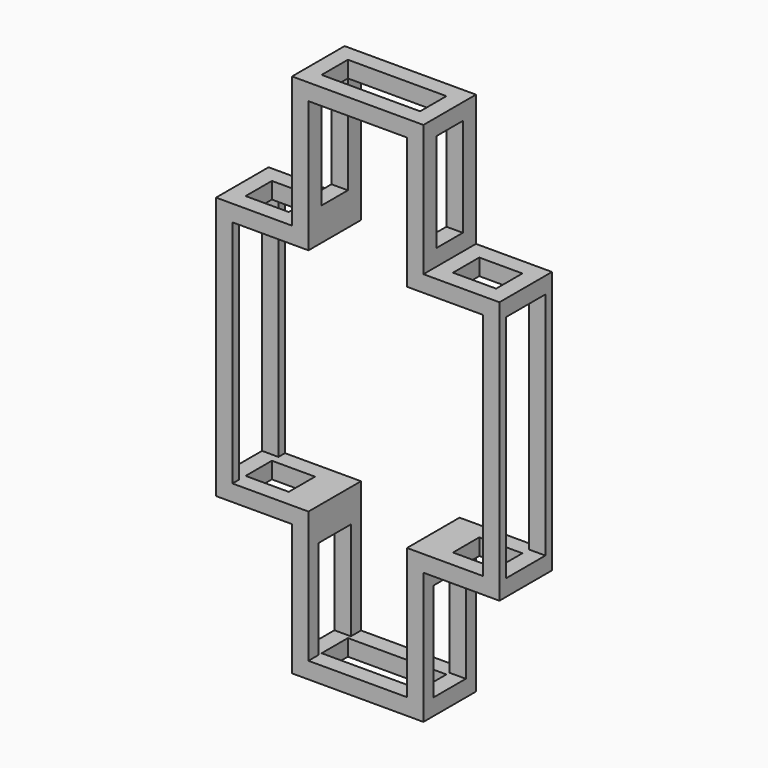
from build123d import *

# Parameters (mm, degrees)
F1_DEPTH  = 12.7
F2_W      = 19.05
F2_H      = 88.9
F3_DEPTH  = 109.573695
F4_W      = 38.1
F4_H      = 12.7
F5_DEPTH  = 203.201
F6_W      = 12.7
F6_H      = 38.1
F7_DEPTH  = 80.187348
F8_W      = 15.60564
F8_H      = 38.1
F9_DEPTH  = 80.187348
F11_DEPTH = 25.401
F12_W     = 16.686348
F12_H     = 12.7
F13_DEPTH = 152.401
F14_W     = 16.686348
F14_H     = 12.7
F15_DEPTH = 152.401


with BuildPart() as f1:
    # F0 (on Front) → F1 (new body, symmetric)
    with BuildSketch(Plane.XZ):
        Polygon((25.4, 101.6), (0, 101.6), (-25.4, 101.6), (-25.4, 50.8), (-54.786348, 50.8), (-54.786348, -50.8), (-25.4, -50.8), (-25.4, -101.6), (0, -101.6), (25.4, -101.6), (25.4, -50.8), (54.786348, -50.8), (54.786348, 50.8), (25.4, 50.8), align=None)
    extrude(amount=F1_DEPTH, both=True)

    # F2 (on face) → F3 (cut, through all)
    with BuildSketch(Plane.YZ.offset(54.786348)):
        Rectangle(F2_W, F2_H)
    extrude(amount=-F3_DEPTH, mode=Mode.SUBTRACT)

    # F4 (on face) → F5 (cut, through all)
    with BuildSketch(Plane(origin=(0, 0, -101.6), x_dir=(1, 0, 0), z_dir=(0, 0, -1))):
        Rectangle(F4_W, F4_H)
    extrude(amount=-F5_DEPTH, mode=Mode.SUBTRACT)

    # F6 (on face) → F7 (cut, through all)
    with BuildSketch(Plane.YZ.offset(25.4)):
        with Locations((0, 76.2)):
            Rectangle(F6_W, F6_H)
    extrude(amount=-F7_DEPTH, mode=Mode.SUBTRACT)

    # F8 (on face) → F9 (cut, through all)
    with BuildSketch(Plane(origin=(-25.4, 0, 0), x_dir=(0, -1, 0), z_dir=(-1, 0, 0))):
        with Locations((0, -76.2)):
            Rectangle(F8_W, F8_H)
    extrude(amount=-F9_DEPTH, mode=Mode.SUBTRACT)

    # F10 (on face) → F11 (cut, through all)
    with BuildSketch(Plane.XZ.offset(12.7)):
        Polygon((19.05, 95.25), (-19.05, 95.25), (-19.05, 44.45), (-48.436348, 44.45), (-48.436348, -44.45), (-19.05, -44.45), (-19.05, -95.25), (19.05, -95.25), (19.05, -44.45), (48.436348, -44.45), (48.436348, 44.45), (19.05, 44.45), align=None)
    extrude(amount=-F11_DEPTH, mode=Mode.SUBTRACT)

    # F12 (on face) → F13 (cut, through all)
    with BuildSketch(Plane.XY.offset(50.8)):
        with Locations((-40.093174, 0)):
            Rectangle(F12_W, F12_H)
    extrude(amount=-F13_DEPTH, mode=Mode.SUBTRACT)

    # F14 (on face) → F15 (cut, through all)
    with BuildSketch(Plane.XY.offset(50.8)):
        with Locations((40.093174, 0)):
            Rectangle(F14_W, F14_H)
    extrude(amount=-F15_DEPTH, mode=Mode.SUBTRACT)


solid = f1.part
